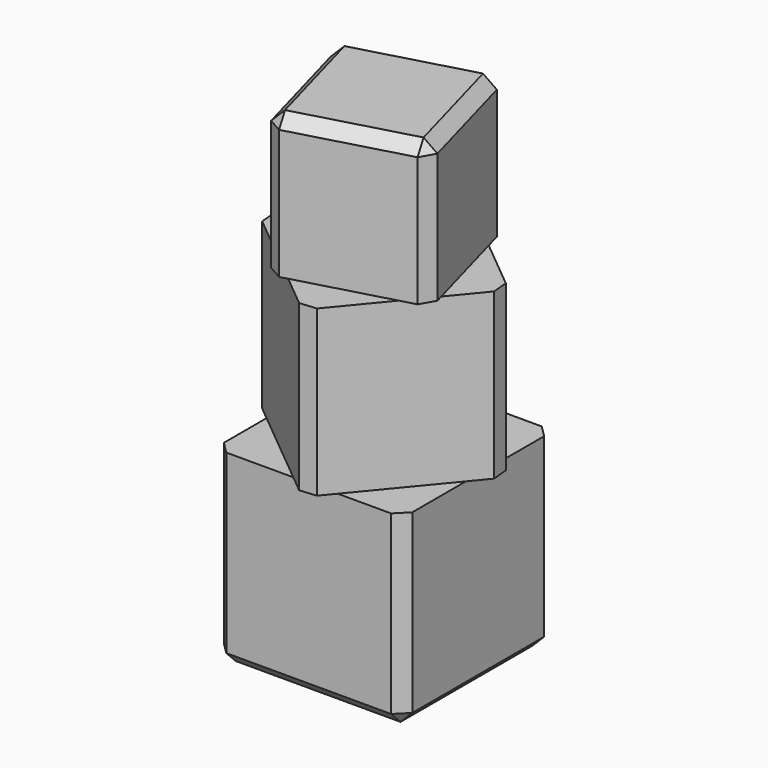
from build123d import *

# Parameters (mm, degrees)
F0_W     = 25.4
F0_H     = 25.4
F1_DEPTH = 25.4
F3_DEPTH = 22.225
F5_DEPTH = 19.05
F6_SIZE  = 1.5875
F7_R     = 1.190625
F8_DEPTH = 1.27
F9_R     = 1.143


with BuildPart() as f1:
    # F0 (on Top) → F1 (new body)
    with BuildSketch(Plane.XY):
        with Locations((12.7, 12.7)):
            Rectangle(F0_W, F0_H)
    extrude(amount=F1_DEPTH)

    # F2 (on face) → F3 (join)
    with BuildSketch(Plane.XY.offset(25.4)):
        Polygon((11.2075299656, 28.3444189952), (-2.9444189952, 11.2075299656), (14.1924700344, -2.9444189952), (28.3444189952, 14.1924700344), align=None)
    extrude(amount=F3_DEPTH)

    # F4 (on face) → F5 (join)
    with BuildSketch(Plane.XY.offset(47.625)):
        Polygon((19.3434658997, 24.4181743817), (0.9818256183, 19.3434658997), (6.0565341003, 0.9818256183), (24.4181743817, 6.0565341003), align=None)
    extrude(amount=F5_DEPTH)

    # F6
    f6_edges = [f1.edges().sort_by_distance(p)[0] for p in [
        (0.981826, 19.343466, 57.15),
        (6.056534, 0.981826, 57.15),
        (15.237354, 3.51918, 66.675),
        (21.88082, 15.237354, 66.675),
        (10.162646, 21.88082, 66.675),
        (3.51918, 10.162646, 66.675),
        (19.343466, 24.418174, 57.15),
        (24.418174, 6.056534, 57.15),
        (28.344419, 14.19247, 36.5125),
        (11.20753, 28.344419, 36.5125),
        (-2.944419, 11.20753, 36.5125),
        (14.19247, -2.944419, 36.5125),
        (0, 0, 12.7),
        (25.4, 0, 12.7),
        (25.4, 25.4, 12.7),
        (0, 25.4, 12.7),
        (0, 12.7, 0),
        (12.7, 0, 0),
        (25.4, 12.7, 0),
        (12.7, 25.4, 0),
    ]]
    chamfer(f6_edges, length=F6_SIZE)

    # F7 (on face) → F8 (cut)
    with BuildSketch(Plane(origin=(5.8788405943, 1.6247678187, 0), x_dir=(0.2663888967, -0.9638656316, 0), z_dir=(-0.9638656316, -0.2663888967, 0))):
        with Locations((-12.8415566616, 61.4088140364)):
            Circle(F7_R)
        with Locations((-4.8616491402, 61.4027757647)):
            Circle(F7_R)
        with Locations((-9.3836337764, 57.5109797041)):
            Circle(F7_R)
        with BuildLine():
            ThreePointArc((-13.2842058157, 54.3290973754), (-12.8799494388, 54.7606037136), (-12.7331269976, 55.3333725229))
            ThreePointArc((-12.7331269976, 55.3333725229), (-14.9675545564, 55.9061413322), (-13.2842058157, 54.3290973754))
        make_face()
        with BuildLine():
            ThreePointArc((-3.6399269976, 55.3333725229), (-5.4033208069, 56.3771750817), (-5.4700981795, 54.3290973754))
            ThreePointArc((-5.4700981795, 54.3290973754), (-4.2577831883, 54.2895699641), (-3.6399269976, 55.3333725229))
        make_face()
        with BuildLine():
            ThreePointArc((-5.7659765017, 53.9980164002), (-7.3257898947, 54.2582033765), (-7.7681685223, 52.7399753853))
            ThreePointArc((-7.7681685223, 52.7399753853), (-6.692346284, 53.2500679279), (-5.7659765017, 53.9980164002))
        make_face()
        with BuildLine():
            ThreePointArc((-5.7659765017, 53.9980164002), (-6.692346284, 53.2500679279), (-7.7681685223, 52.7399753853))
            ThreePointArc((-7.7681685223, 52.7399753853), (-6.4309203498, 52.0884981403), (-5.501721284, 53.2500679279))
            ThreePointArc((-5.501721284, 53.2500679279), (-5.5697272674, 53.6466967649), (-5.7659765017, 53.9980164002))
        make_face()
        with BuildLine():
            ThreePointArc((-8.1948406932, 52.6170548731), (-9.3771519976, 53.6672239371), (-10.5594633021, 52.6170548731))
            ThreePointArc((-10.5594633021, 52.6170548731), (-9.3771519976, 52.4765989371), (-8.1948406932, 52.6170548731))
        make_face()
        with BuildLine():
            ThreePointArc((-8.1948406932, 52.6170548731), (-9.3771519976, 52.4765989371), (-10.5594633021, 52.6170548731))
            ThreePointArc((-10.5594633021, 52.6170548731), (-9.4475028816, 51.2880541782), (-8.1865269976, 52.4765989371))
            ThreePointArc((-8.1865269976, 52.4765989371), (-8.1886072388, 52.546949821), (-8.1948406932, 52.6170548731))
        make_face()
        with BuildLine():
            ThreePointArc((-10.8713327113, 53.2500679279), (-11.6653288744, 54.3726869445), (-12.9883274936, 53.9980164002))
            ThreePointArc((-12.9883274936, 53.9980164002), (-12.0619577113, 53.2500679279), (-10.986135473, 52.7399753853))
            ThreePointArc((-10.986135473, 52.7399753853), (-10.9003879237, 52.9886419938), (-10.8713327113, 53.2500679279))
        make_face()
        with BuildLine():
            ThreePointArc((-10.986135473, 52.7399753853), (-12.0619577113, 53.2500679279), (-12.9883274936, 53.9980164002))
            ThreePointArc((-12.9883274936, 53.9980164002), (-12.695401322, 52.2419324794), (-10.986135473, 52.7399753853))
        make_face()
    extrude(amount=-F8_DEPTH, mode=Mode.SUBTRACT)

    # F9
    f9_edges = [f1.edges().sort_by_distance(p)[0] for p in [
        (3.364933, 15.488219, 61.408814),
        (5.490691, 7.796661, 61.402776),
        (4.286085, 12.155246, 57.51098),
        (3.076648, 16.53131, 55.333373),
        (4.136553, 12.696292, 52.502119),
        (4.919935, 9.861807, 52.336143),
        (5.60677, 7.376656, 53.76016),
        (5.986513, 6.002648, 56.337648),
    ]]
    fillet(f9_edges, radius=F9_R)


solid = f1.part
